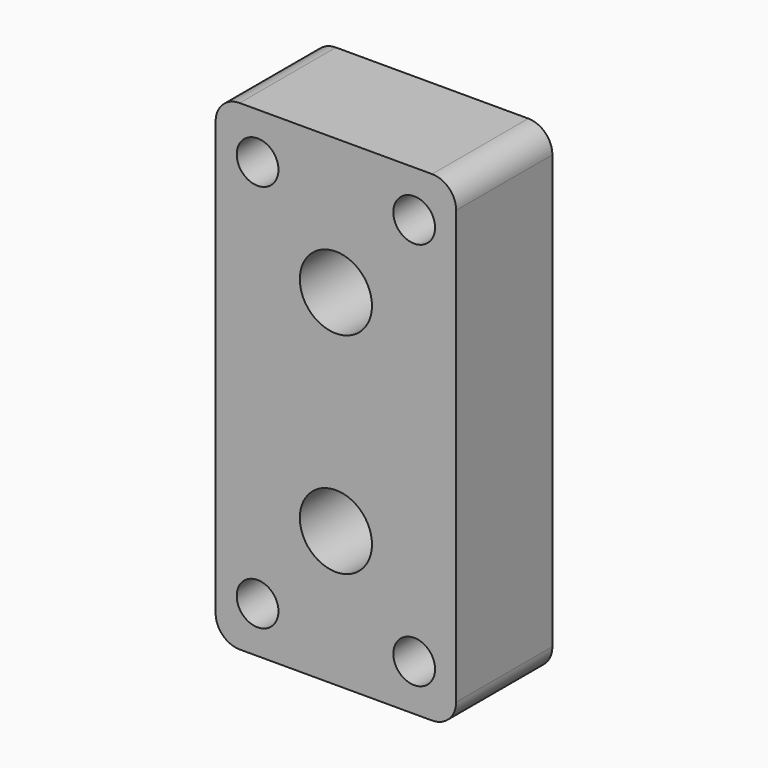
from build123d import *

# Parameters (mm, degrees)
F0_W     = 50.8
F0_H     = 101.6
F0_R     = 7.62
F1_DEPTH = 12.7
F2_R     = 5.08
F3_R     = 4.408168
F4_DEPTH = 25.401


with BuildPart() as f1:
    # F0 (on Front) → F1 (new body, symmetric)
    with BuildSketch(Plane.XZ):
        Rectangle(F0_W, F0_H)
        with Locations((0, -22.179579)):
            Circle(F0_R, mode=Mode.SUBTRACT)
        with Locations((0, 22.179579)):
            Circle(F0_R, mode=Mode.SUBTRACT)
    extrude(amount=F1_DEPTH, both=True)

    # F2
    f2_edges = [f1.edges().sort_by_distance(p)[0] for p in [
        (-25.4, 0, 50.8),
        (25.4, 0, 50.8),
        (25.4, 0, -50.8),
        (-25.4, 0, -50.8),
    ]]
    fillet(f2_edges, radius=F2_R)

    # F3 (on face) → F4 (cut, through all)
    with BuildSketch(Plane.XZ.offset(12.7)):
        with Locations((-16.53761, 41.049208)):
            Circle(F3_R)
        with Locations((16.53761, 41.049208)):
            Circle(F3_R)
        with Locations((16.53761, -41.049208)):
            Circle(F3_R)
        with Locations((-16.53761, -41.049208)):
            Circle(F3_R)
    extrude(amount=-F4_DEPTH, mode=Mode.SUBTRACT)


solid = f1.part
